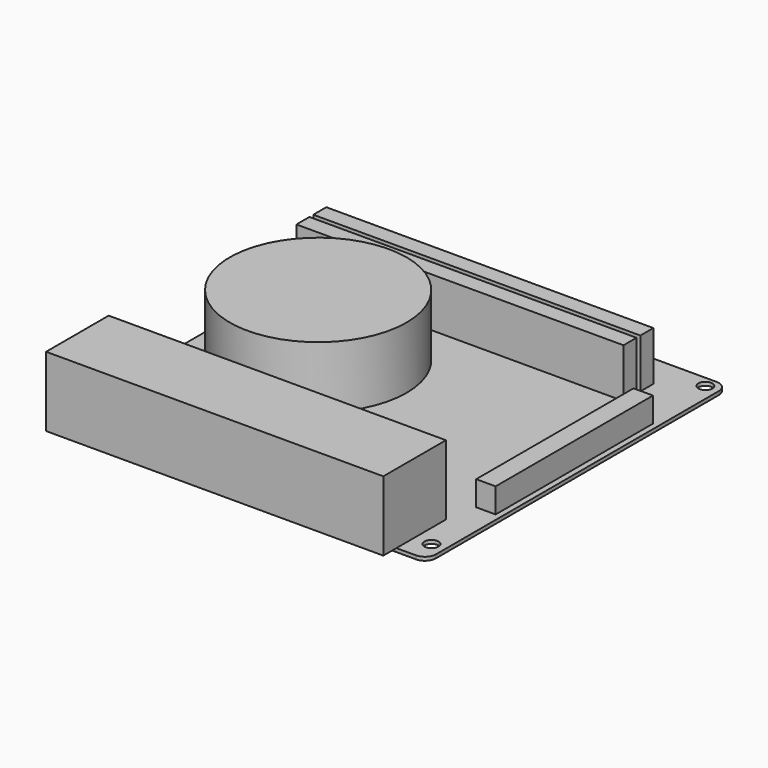
from build123d import *

# Parameters (mm, degrees)
F10_W     = 170
F10_H     = 170
F10_R     = 3.175
F11_DEPTH = 1.6
F0_R      = 5
F12_R     = 40
F13_DEPTH = 28
F1_W      = 148
F1_H      = 7.35
F2_DEPTH  = 22.25
F14_W     = 152.6
F14_H     = 35.4
F3_DEPTH  = 31.6
F4_W      = 74.167728
F4_H      = 88
F5_DEPTH  = 5
F6_W      = 8.8
F6_H      = 89
F7_DEPTH  = 11.2
F8_W      = 51.6
F8_H      = 9.6
F9_DEPTH  = 12.8


with BuildPart() as f11:
    # F10 (on Top) → F11 (new body)
    with BuildSketch(Plane.XY):
        Rectangle(F10_W, F10_H)
        with Locations((-78.65, -51.98)):
            Circle(F10_R, mode=Mode.SUBTRACT)
        with Locations((78.83, -74.84)):
            Circle(F10_R, mode=Mode.SUBTRACT)
        with Locations((-78.65, 80.1)):
            Circle(F10_R, mode=Mode.SUBTRACT)
        with Locations((78.83, 80.1)):
            Circle(F10_R, mode=Mode.SUBTRACT)
    extrude(amount=F11_DEPTH)

    # F0
    f0_edges = [f11.edges().sort_by_distance(p)[0] for p in [
        (-85, 85, 0.8),
        (-85, -85, 0.8),
        (85, -85, 0.8),
        (85, 85, 0.8),
    ]]
    fillet(f0_edges, radius=F0_R)

    # F1 (on face) → F2 (join)
    with BuildSketch(Plane.XY.offset(1.6)):
        with Locations((-10.5, 56.625)):
            Rectangle(F1_W, F1_H)
        with Locations((-10.5, 66.175)):
            Rectangle(F1_W, F1_H)
    extrude(amount=F2_DEPTH)

    # F14 (on face) → F3 (join)
    with BuildSketch(Plane.XY.offset(1.6)):
        with Locations((-5.2, -74.7)):
            Rectangle(F14_W, F14_H)
    extrude(amount=F3_DEPTH)

    # F6 (on face) → F7 (join)
    with BuildSketch(Plane.XY.offset(1.6)):
        with Locations((78, 1.5)):
            Rectangle(F6_W, F6_H)
    extrude(amount=F7_DEPTH)

    # F8 (on face) → F9 (join)
    with BuildSketch(Plane.XY.offset(1.6)):
        with Locations((-4.8, 76.4)):
            Rectangle(F8_W, F8_H)
    extrude(amount=F9_DEPTH)


with BuildPart() as f13:
    # F12 (on face) → F13 (new body)
    with BuildSketch(Plane.XY.offset(1.6)):
        with Locations((-40.3, 10)):
            Circle(F12_R)
    extrude(amount=F13_DEPTH)


with BuildPart() as f5:
    # F4 (on face) → F5 (new body)
    with BuildSketch(Plane(origin=(0, 0, 0), x_dir=(1, 0, 0), z_dir=(0, 0, -1))):
        with Locations((-38.937338, -10.52025)):
            Rectangle(F4_W, F4_H)
    extrude(amount=F5_DEPTH)


solid = Compound([f11.part, f13.part, f5.part])
